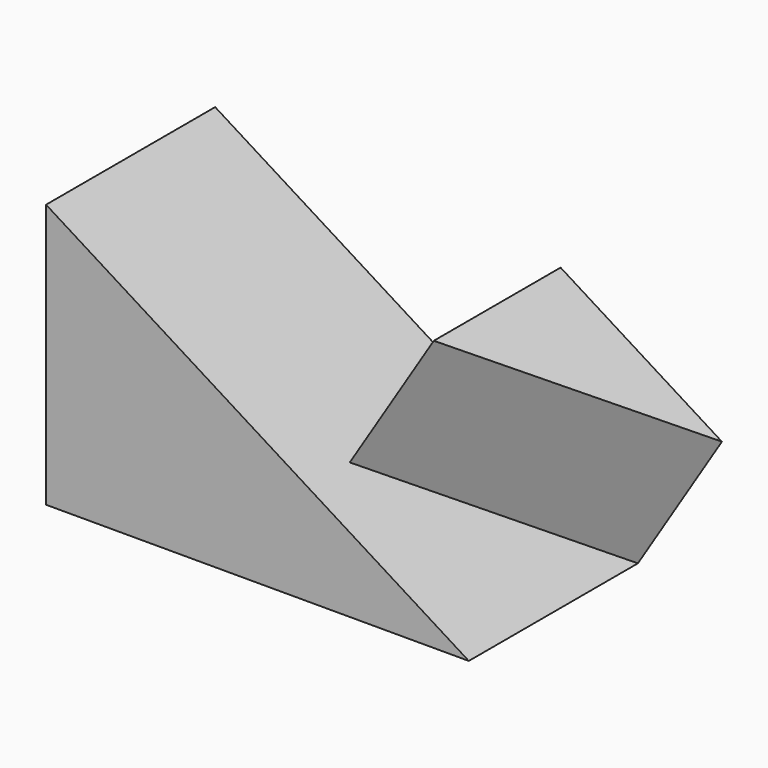
from build123d import *

# Parameters (mm, degrees)
F1_DEPTH = 25.4
F3_DEPTH = 19.05


with BuildPart() as f1:
    # F0 (on Front) → F1 (new body)
    with BuildSketch(Plane.XZ):
        Polygon((0, 31.75), (0, 0), (50.8, 0), align=None)
    extrude(amount=F1_DEPTH)

    # F2 (on face) → F3 (join)
    with BuildSketch(Plane(origin=(14.2696629213, 0, 22.8314606742), x_dir=(0.847998304, 0, -0.52999894), z_dir=(0.52999894, 0, 0.847998304))):
        Polygon((20.2183138435, -19.05), (43.0783138435, 0), (20.2183138435, 0), align=None)
    extrude(amount=F3_DEPTH)


solid = f1.part
